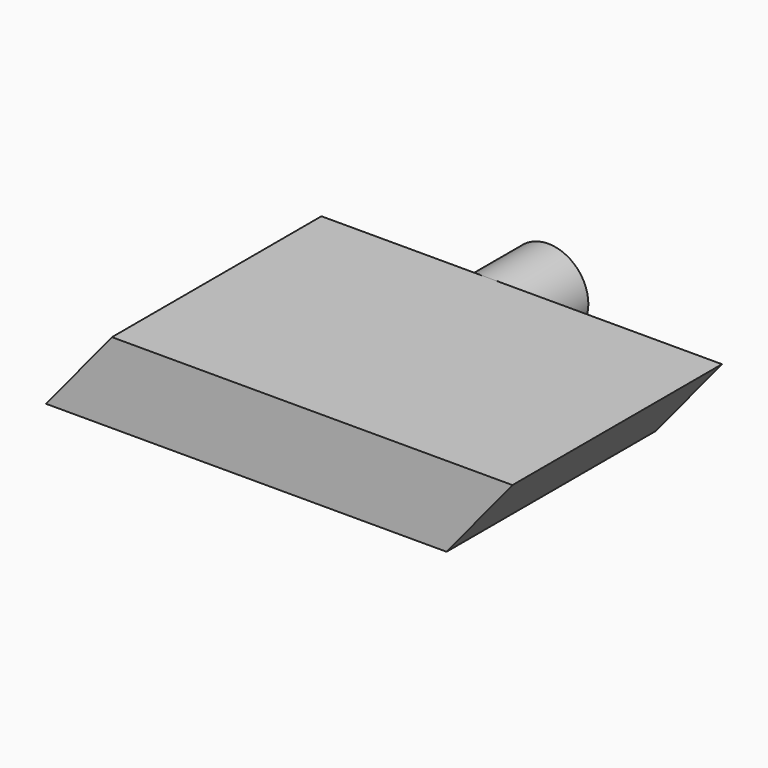
from build123d import *

# Parameters (mm, degrees)
F0_R     = 12.164426
F1_DEPTH = 22.606
F3_DEPTH = 79.502


with BuildPart() as f1:
    # F0 (on Front) → F1 (new body)
    with BuildSketch(Plane.XZ):
        Circle(F0_R)
    extrude(amount=F1_DEPTH)

    # F2 (on face) → F3 (join)
    with BuildSketch(Plane.XZ.offset(22.606)):
        Polygon((50.8, 12.164426), (0, 12.164426), (-50.8, 12.164426), (-70.8, -12.164426), (-50.8, -12.164426), (0, -12.164426), (50.8, -12.164426), (70.8, 12.164426), align=None)
    extrude(amount=F3_DEPTH)


solid = f1.part
